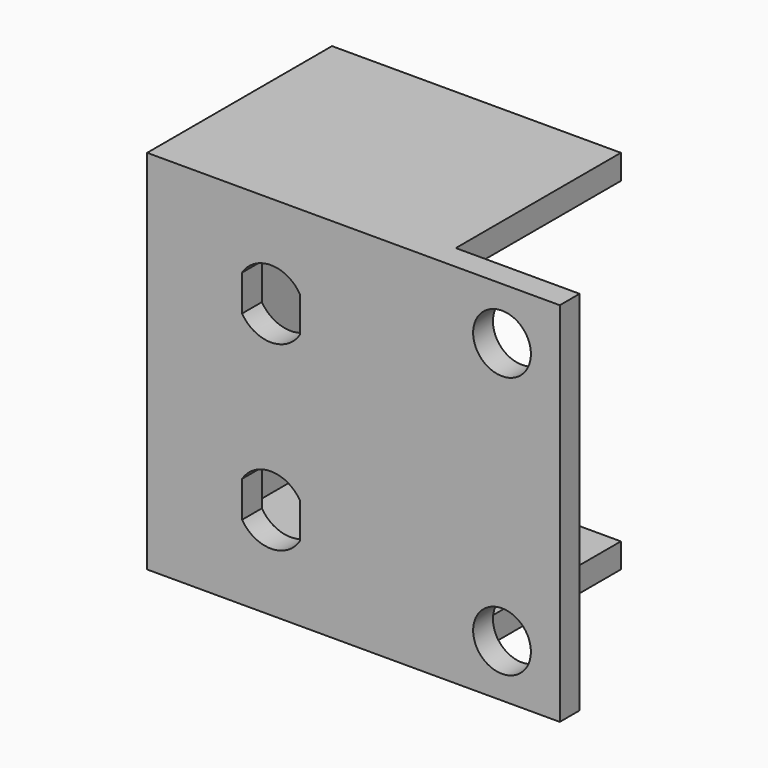
from build123d import *

# Parameters (mm, degrees)
F0_W     = 50
F0_H     = 44.45
F0_R     = 3.5
F1_DEPTH = 3
F3_DEPTH = 25


with BuildPart() as f1:
    # F0 (on Front) → F1 (new body)
    with BuildSketch(Plane.XZ):
        with Locations((-25, 22.225)):
            Rectangle(F0_W, F0_H)
        with BuildLine():
            Line((-38.5, 9.041969), (-38.5, 13.408031))
            ThreePointArc((-38.5, 13.408031), (-35, 15.35), (-31.5, 13.408031))
            Line((-31.5, 13.408031), (-31.5, 9.041969))
            ThreePointArc((-31.5, 9.041969), (-35, 7.1), (-38.5, 9.041969))
        make_face(mode=Mode.SUBTRACT)
        with Locations((-7, 6.35)):
            Circle(F0_R, mode=Mode.SUBTRACT)
        with BuildLine():
            ThreePointArc((-38.5, 35.408031), (-35, 37.35), (-31.5, 35.408031))
            Line((-31.5, 35.408031), (-31.5, 31.041969))
            ThreePointArc((-31.5, 31.041969), (-35, 29.1), (-38.5, 31.041969))
            Line((-38.5, 31.041969), (-38.5, 35.408031))
        make_face(mode=Mode.SUBTRACT)
        with Locations((-7, 38.1)):
            Circle(F0_R, mode=Mode.SUBTRACT)
    extrude(amount=-F1_DEPTH)

    # F2 (on face) → F3 (join)
    with BuildSketch(Plane(origin=(0, 3, 0), x_dir=(-1, 0, 0), z_dir=(0, 1, 0))):
        Polygon((50, 44.45), (15, 44.45), (15, 41.45), (47, 41.45), (47, 3), (15, 3), (15, 0), (50, 0), align=None)
    extrude(amount=F3_DEPTH)


solid = f1.part
